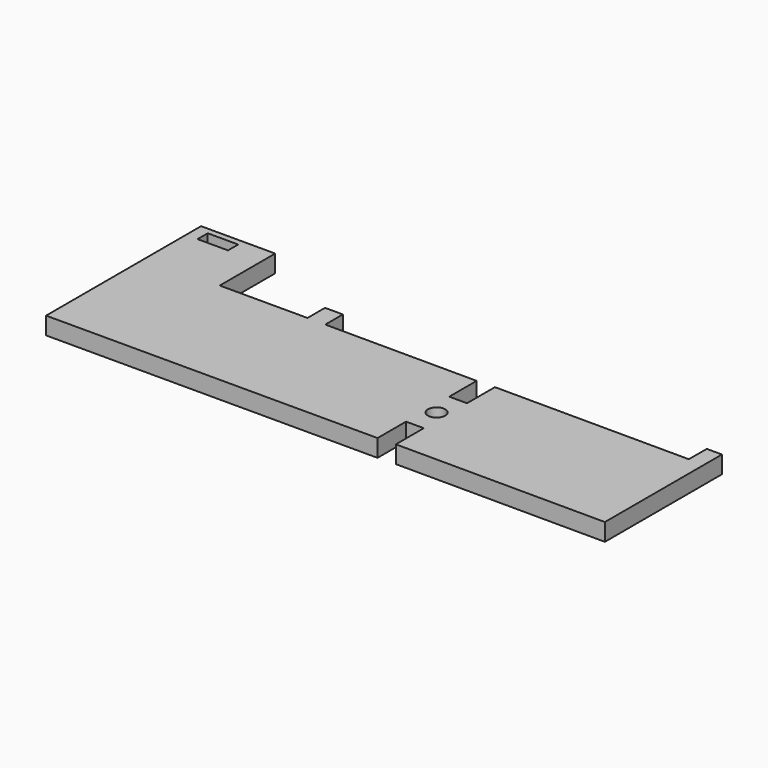
from build123d import *

# Parameters (mm, degrees)
F0_R     = 3.776883
F0_W     = 13.310812
F0_H     = 5.56634
F1_DEPTH = 7.62


with BuildPart() as f1:
    # F0 (on Top) → F1 (new body)
    with BuildSketch(Plane.XY):
        Polygon((-125.915021, 62.309951), (-125.915021, -22.304947), (18.851278, -22.304947), (18.851278, -6.763435), (26.622031, -6.763435), (26.622031, -22.017142), (118.144266, -22.304947), (118.144266, 41.58793), (111.525701, 41.608743), (111.501263, 31.801704), (26.622031, 32.068619), (26.622031, 16.836636), (18.851278, 16.836636), (18.851278, 31.801704), (-47.428191, 32.010129), (-47.428191, 41.608743), (-55.215195, 41.608743), (-55.215195, 32.034616), (-93.54344, 32.034616), (-93.54344, 62.309951), align=None)
        with Locations((22.773762, 5.0366)):
            Circle(F0_R, mode=Mode.SUBTRACT)
        with Locations((-114.20754, 56.850752)):
            Rectangle(F0_W, F0_H, mode=Mode.SUBTRACT)
    extrude(amount=F1_DEPTH)


solid = f1.part
